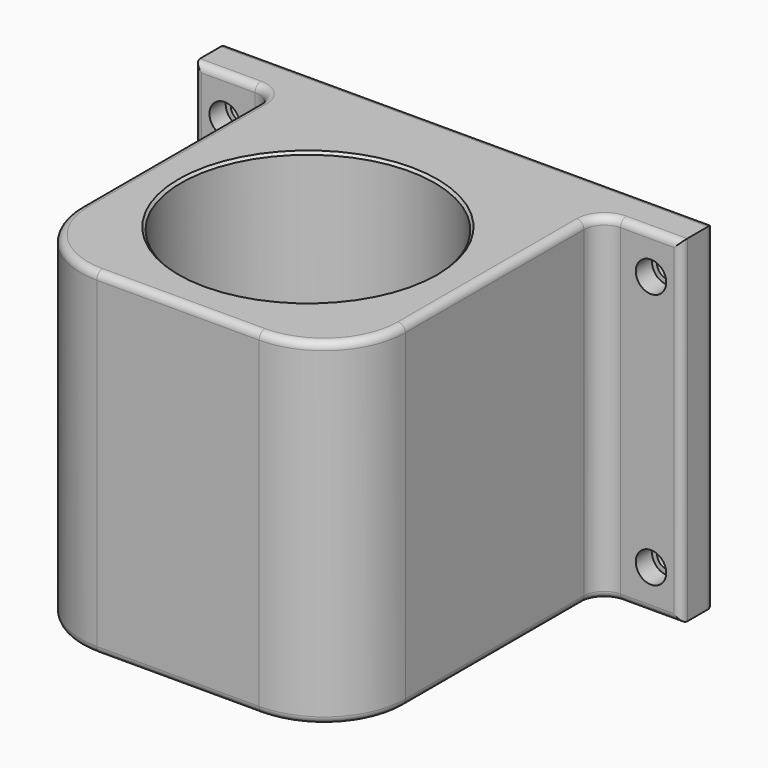
from build123d import *

# Parameters (mm, degrees)
F0_W           = 152.4
F0_H           = 105.41
F1_DEPTH       = 12.7
F3_D           = 6.35
F3_CBORE_D     = 9.525
F3_CBORE_DEPTH = 6.35
F4_W           = 101.6
F4_H           = 105.41
F5_DEPTH       = 101.6
F6_R           = 25.4
F7_R           = 6.35
F8_R           = 39.6875
F9_DEPTH       = 105.411
F10_R          = 2.286
F11_SIZE       = 0.7874


with BuildPart() as f1:
    # F0 (on Front) → F1 (new body)
    with BuildSketch(Plane.XZ):
        with Locations((-76.2, 52.705)):
            Rectangle(F0_W, F0_H)
    extrude(amount=F1_DEPTH)

    # F3 (through all)
    with Locations(Plane.XZ.offset(12.7)):
        with Locations((-9.525, 92.71), (-142.875, 92.71), (-9.525, 12.7), (-142.875, 12.7)):
            CounterBoreHole(F3_D / 2, F3_CBORE_D / 2, F3_CBORE_DEPTH)

    # F4 (on face) → F5 (join)
    with BuildSketch(Plane.XZ.offset(12.7)):
        with Locations((-76.2, 52.705)):
            Rectangle(F4_W, F4_H)
    extrude(amount=F5_DEPTH)

    # F6
    f6_edges = [f1.edges().sort_by_distance(p)[0] for p in [
        (-25.4, -114.3, 52.705),
        (-127, -114.3, 52.705),
    ]]
    fillet(f6_edges, radius=F6_R)

    # F7
    f7_edges = [f1.edges().sort_by_distance(p)[0] for p in [
        (-25.4, -12.7, 52.705),
        (-127, -12.7, 52.705),
    ]]
    fillet(f7_edges, radius=F7_R)

    # F8 (on face) → F9 (cut, through all)
    with BuildSketch(Plane(origin=(0, 0, 0), x_dir=(1, 0, 0), z_dir=(0, 0, -1))):
        with Locations((-76.2, 63.5)):
            Circle(F8_R)
    extrude(amount=-F9_DEPTH, mode=Mode.SUBTRACT)

    # F10
    f10_edges = [f1.edges().sort_by_distance(p)[0] for p in [
        (-142.875, -12.7, 0),
        (-9.525, -12.7, 0),
        (0, -12.7, 52.705),
        (-142.875, -12.7, 105.41),
        (-9.525, -12.7, 105.41),
        (-76.2, 0, 105.41),
        (0, 0, 52.705),
        (-152.4, -12.7, 52.705),
        (-152.4, 0, 52.705),
        (-76.2, 0, 0),
    ]]
    fillet(f10_edges, radius=F10_R)

    # F11
    f11_edges = [f1.edges().sort_by_distance(p)[0] for p in [
        (-115.8875, -63.5, 105.41),
        (-115.8875, -63.5, 0),
    ]]
    chamfer(f11_edges, length=F11_SIZE)


solid = f1.part
